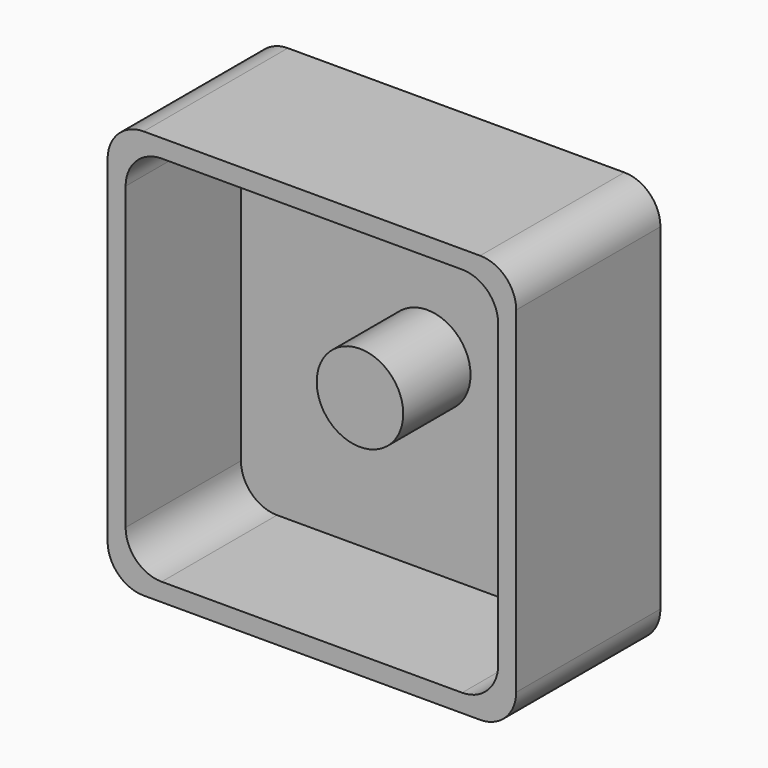
from build123d import *

# Parameters (mm, degrees)
F0_R     = 3.6
F1_DEPTH = 3
F2_DEPTH = 10
F3_DEPTH = 15


with BuildPart() as f1:
    # F0 (on Front) → F1 (new body)
    with BuildSketch(Plane.XZ):
        with BuildLine():
            ThreePointArc((15.5, 12.5), (14.62132, 14.62132), (12.5, 15.5))
            Line((12.5, 15.5), (-12.5, 15.5))
            ThreePointArc((-12.5, 15.5), (-14.62132, 14.62132), (-15.5, 12.5))
            Line((-15.5, 12.5), (-15.5, -12.5))
            ThreePointArc((-15.5, -12.5), (-14.62132, -14.62132), (-12.5, -15.5))
            Line((-12.5, -15.5), (12.5, -15.5))
            ThreePointArc((12.5, -15.5), (14.62132, -14.62132), (15.5, -12.5))
            Line((15.5, -12.5), (15.5, 12.5))
        make_face()
        Circle(F0_R, mode=Mode.SUBTRACT)
    extrude(amount=F1_DEPTH)

    # F0 (on Front) → F2 (join)
    with BuildSketch(Plane.XZ):
        Circle(F0_R)
    extrude(amount=F2_DEPTH)

    # F0 (on Front) → F3 (join)
    with BuildSketch(Plane.XZ):
        with BuildLine():
            Line((14, 17), (-14, 17))
            ThreePointArc((-14, 17), (-16.12132, 16.12132), (-17, 14))
            Line((-17, 14), (-17, -14))
            ThreePointArc((-17, -14), (-16.12132, -16.12132), (-14, -17))
            Line((-14, -17), (14, -17))
            ThreePointArc((14, -17), (16.12132, -16.12132), (17, -14))
            Line((17, -14), (17, 14))
            ThreePointArc((17, 14), (16.12132, 16.12132), (14, 17))
        make_face()
        with BuildLine():
            Line((-12.5, 15.5), (12.5, 15.5))
            ThreePointArc((12.5, 15.5), (14.62132, 14.62132), (15.5, 12.5))
            Line((15.5, 12.5), (15.5, -12.5))
            ThreePointArc((15.5, -12.5), (14.62132, -14.62132), (12.5, -15.5))
            Line((12.5, -15.5), (-12.5, -15.5))
            ThreePointArc((-12.5, -15.5), (-14.62132, -14.62132), (-15.5, -12.5))
            Line((-15.5, -12.5), (-15.5, 12.5))
            ThreePointArc((-15.5, 12.5), (-14.62132, 14.62132), (-12.5, 15.5))
        make_face(mode=Mode.SUBTRACT)
    extrude(amount=F3_DEPTH)


solid = f1.part
